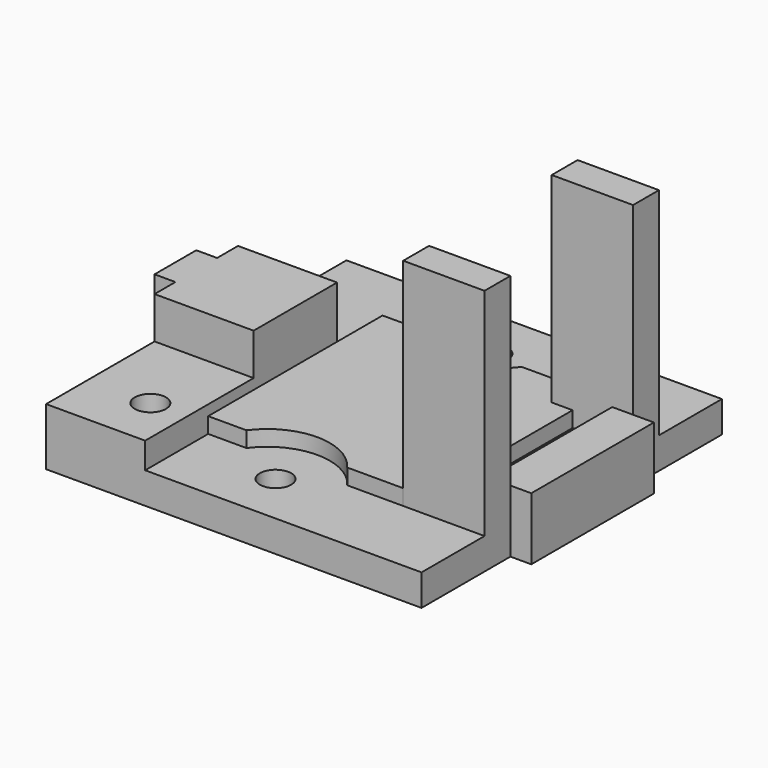
from build123d import *

# Parameters (mm, degrees)
CYLINDER002_R     = 1.5
CYLINDER002_DEPTH = 10
EXTRUDE_DEPTH     = 2.5
CYLINDER001_R     = 1.5
CYLINDER001_DEPTH = 10
BOX008_W          = 36
BOX008_H          = 2
BOX008_DEPTH      = 10
CYLINDER_R        = 6
CYLINDER_DEPTH    = 10
BOX007_W          = 20.7
BOX007_H          = 20.9
BOX007_DEPTH      = 1.5
BOX006_W          = 2
BOX006_H          = 10
BOX006_DEPTH      = 10
BOX005_W          = 11.5
BOX005_H          = 10
BOX005_DEPTH      = 6.5
BOX009_W          = 9.5
BOX009_H          = 13
BOX009_DEPTH      = 2.5
BOX004_W          = 7.8
BOX004_H          = 3.1
BOX004_DEPTH      = 20.7
BOX003_W          = 4
BOX003_H          = 14.7
BOX003_DEPTH      = 3
BOX002_W          = 2
BOX002_H          = 12.65
BOX002_DEPTH      = 10
BOX001_W          = 2
BOX001_H          = 17.5
BOX001_DEPTH      = 10
BOX_W             = 40
BOX_H             = 40
BOX_DEPTH         = 3


with BuildPart() as cylinder002:
    # Cylinder002 → Cylinder002 (new body)
    with BuildSketch(Plane(origin=(20, -3, 0), x_dir=(1, 0, 0), z_dir=(0, 0, 1))):
        Circle(CYLINDER002_R)
    extrude(amount=CYLINDER002_DEPTH)


with BuildPart() as cylinder002_mirrored:
    # mirror001: instance of Cylinder002
    add(cylinder002.part.mirror(Plane(origin=(0, 10, 0), x_dir=(1, 0, 0), z_dir=(0, 1, 0))))


with BuildPart() as extrude_body:
    # Sketch (on Face3 of Cylinder001) → Extrude (new body)
    with BuildSketch(Plane(origin=(8, -3, 0), x_dir=(1, 0, 0), z_dir=(0, 0, -1))):
        Polygon((3.117691, 0), (1.558846, 2.7), (-1.558846, 2.7), (-3.117691, 0), (-1.558846, -2.7), (1.558846, -2.7), align=None)
    extrude(amount=-EXTRUDE_DEPTH)


with BuildPart() as cylinder001:
    # Cylinder001 → Cylinder001 (new body)
    with BuildSketch(Plane(origin=(8, -3, 0), x_dir=(1, 0, 0), z_dir=(0, 0, 1))):
        Circle(CYLINDER001_R)
    extrude(amount=CYLINDER001_DEPTH)


with BuildPart() as cube008:
    # Box008 → Box008 (new body)
    with BuildSketch(Plane(origin=(2, -10, 0), x_dir=(1, 0, 0), z_dir=(0, 0, 1))):
        with Locations((18, 1)):
            Rectangle(BOX008_W, BOX008_H)
    extrude(amount=BOX008_DEPTH)


with BuildPart() as cube008_mirrored:
    # mirror: instance of Cube008
    add(cube008.part.mirror(Plane(origin=(0, 10, 0), x_dir=(-1, 0, 0), z_dir=(0, -1, 0))))


with BuildPart() as cylinder:
    # Cylinder → Cylinder (new body)
    with BuildSketch(Plane(origin=(20, -4, 3), x_dir=(1, 0, 0), z_dir=(0, 0, 1))):
        Circle(CYLINDER_R)
    extrude(amount=CYLINDER_DEPTH)


with BuildPart() as part_mirroring004:
    # Part__Mirroring004: instance of Cylinder
    add(cylinder.part.mirror(Plane(origin=(0, 0, 0), x_dir=(1, 0, 0), z_dir=(0, 1, 0))))


with BuildPart() as part_mirroring004_1:
    # Part__Mirroring004 placement: moved
    add(part_mirroring004.part.moved(Location((0, 20, 0))))


with BuildPart() as cube007:
    # Box007 → Box007 (new body)
    with BuildSketch(Plane(origin=(11.5, -0.448498, 3), x_dir=(1, 0, 0), z_dir=(0, 0, 1))):
        with Locations((10.35, 10.45)):
            Rectangle(BOX007_W, BOX007_H)
    extrude(amount=BOX007_DEPTH)


with BuildPart() as cube006:
    # Box006 → Box006 (new body)
    with BuildSketch(Plane(origin=(0, -2.5, 0), x_dir=(1, 0, 0), z_dir=(0, 0, 1))):
        with Locations((1, 5)):
            Rectangle(BOX006_W, BOX006_H)
    extrude(amount=BOX006_DEPTH)


with BuildPart() as part_mirroring003:
    # Part__Mirroring003: instance of Cube006
    add(cube006.part.mirror(Plane(origin=(0, 0, 0), x_dir=(1, 0, 0), z_dir=(0, 1, 0))))


with BuildPart() as part_mirroring003_1:
    # Part__Mirroring003 placement: moved
    add(part_mirroring003.part.moved(Location((0, 20, 0))))


with BuildPart() as cut005:
    # Box005 → Box005 (new body)
    with BuildSketch(Plane(origin=(0, 5, 3), x_dir=(1, 0, 0), z_dir=(0, 0, 1))):
        with Locations((5.75, 5)):
            Rectangle(BOX005_W, BOX005_H)
    extrude(amount=BOX005_DEPTH)

    # Cut004: cut Cube006
    add(cube006.part, mode=Mode.SUBTRACT)

    # Cut005: cut Part__Mirroring003
    add(part_mirroring003_1.part, mode=Mode.SUBTRACT)


with BuildPart() as cube009:
    # Box009 → Box009 (new body)
    with BuildSketch(Plane(origin=(2, -8, 3), x_dir=(1, 0, 0), z_dir=(0, 0, 1))):
        with Locations((4.75, 6.5)):
            Rectangle(BOX009_W, BOX009_H)
    extrude(amount=BOX009_DEPTH)


with BuildPart() as cube004:
    # Box004 → Box004 (new body)
    with BuildSketch(Plane(origin=(30.2, -0.450903, 3), x_dir=(1, 0, 0), z_dir=(0, 0, 1))):
        with Locations((3.9, 1.55)):
            Rectangle(BOX004_W, BOX004_H)
    extrude(amount=BOX004_DEPTH)


with BuildPart() as part_mirroring002:
    # Part__Mirroring002: instance of Cube004
    add(cube004.part.mirror(Plane(origin=(0, 0, 0), x_dir=(1, 0, 0), z_dir=(0, 1, 0))))


with BuildPart() as part_mirroring002_1:
    # Part__Mirroring002 placement: moved
    add(part_mirroring002.part.moved(Location((0, 20, 0))))


with BuildPart() as cube003:
    # Box003 → Box003 (new body)
    with BuildSketch(Plane(origin=(36, 2.65, 3), x_dir=(1, 0, 0), z_dir=(0, 0, 1))):
        with Locations((2, 7.35)):
            Rectangle(BOX003_W, BOX003_H)
    extrude(amount=BOX003_DEPTH)


with BuildPart() as cube002:
    # Box002 → Box002 (new body)
    with BuildSketch(Plane(origin=(38, -10, 0), x_dir=(1, 0, 0), z_dir=(0, 0, 1))):
        with Locations((1, 6.325)):
            Rectangle(BOX002_W, BOX002_H)
    extrude(amount=BOX002_DEPTH)


with BuildPart() as part_mirroring001:
    # Part__Mirroring001: instance of Cube002
    add(cube002.part.mirror(Plane(origin=(0, 0, 0), x_dir=(1, 0, 0), z_dir=(0, 1, 0))))


with BuildPart() as part_mirroring001_1:
    # Part__Mirroring001 placement: moved
    add(part_mirroring001.part.moved(Location((0, 20, 0))))


with BuildPart() as cube001:
    # Box001 → Box001 (new body)
    with BuildSketch(Plane(origin=(0, -10, 0), x_dir=(1, 0, 0), z_dir=(0, 0, 1))):
        with Locations((1, 8.75)):
            Rectangle(BOX001_W, BOX001_H)
    extrude(amount=BOX001_DEPTH)


with BuildPart() as part_mirroring:
    # Part__Mirroring: instance of Cube001
    add(cube001.part.mirror(Plane(origin=(0, 0, 0), x_dir=(1, 0, 0), z_dir=(0, 1, 0))))


with BuildPart() as part_mirroring_1:
    # Part__Mirroring placement: moved
    add(part_mirroring.part.moved(Location((0, 20, 0))))


with BuildPart() as cut011003001:
    # Box → Box (new body)
    with BuildSketch(Plane(origin=(0, -10, 0), x_dir=(1, 0, 0), z_dir=(0, 0, 1))):
        with Locations((20, 20)):
            Rectangle(BOX_W, BOX_H)
    extrude(amount=BOX_DEPTH)

    # Cut: cut Part__Mirroring
    add(part_mirroring_1.part, mode=Mode.SUBTRACT)

    # Cut001: cut Cube001
    add(cube001.part, mode=Mode.SUBTRACT)

    # Cut002: cut Part__Mirroring001
    add(part_mirroring001_1.part, mode=Mode.SUBTRACT)

    # Cut003: cut Cube002
    add(cube002.part, mode=Mode.SUBTRACT)

    # Fusion: union Cube007, Cut005, Cube009, Part__Mirroring002, Cube003, Cube004
    add(cube007.part)
    add(cut005.part)
    add(cube009.part)
    add(part_mirroring002_1.part)
    add(cube003.part)
    add(cube004.part)

    # Cut006: cut Part__Mirroring004
    add(part_mirroring004_1.part, mode=Mode.SUBTRACT)

    # Cut007: cut Cylinder
    add(cylinder.part, mode=Mode.SUBTRACT)

    # Cut008: cut Cube008
    add(cube008.part, mode=Mode.SUBTRACT)

    # Cut009: cut Cube008 (mirrored)
    add(cube008_mirrored.part, mode=Mode.SUBTRACT)

    # Cut010: cut Cylinder001
    add(cylinder001.part, mode=Mode.SUBTRACT)

    # Cut011: cut Extrude body
    add(extrude_body.part, mode=Mode.SUBTRACT)

    # Cut011002: cut Cylinder002
    add(cylinder002.part, mode=Mode.SUBTRACT)

    # Cut011003: cut Cylinder002 (mirrored)
    add(cylinder002_mirrored.part, mode=Mode.SUBTRACT)


solid = cut011003001.part
